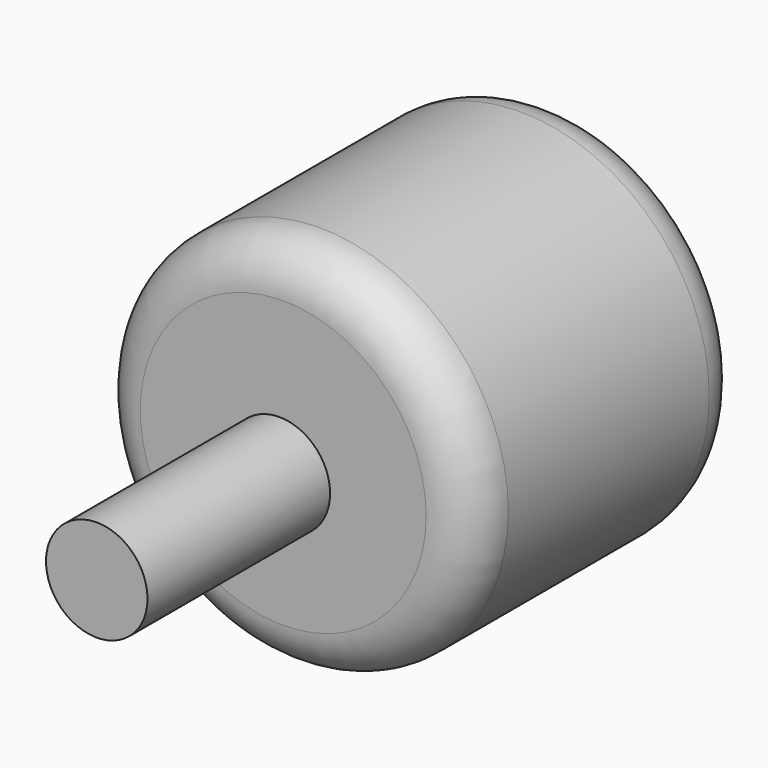
from build123d import *

# Parameters (mm, degrees)
F0_R     = 20.987211
F1_DEPTH = 38.1
F2_R     = 5.08
F3_R     = 5.64864
F4_DEPTH = 25.4


with BuildPart() as f1:
    # F0 (on Front) → F1 (new body)
    with BuildSketch(Plane.XZ):
        with Locations((-26.213065, 26.794255)):
            Circle(F0_R)
    extrude(amount=-F1_DEPTH)

    # F2
    f2_edges = [f1.edges().sort_by_distance(p)[0] for p in [
        (-47.200276, 0, 26.794255),
        (-5.225854, 19.05, 26.794255),
        (-47.200276, 38.1, 26.794255),
    ]]
    fillet(f2_edges, radius=F2_R)

    # F3 (on Front) → F4 (join)
    with BuildSketch(Plane.XZ):
        with Locations((-26.644299, 25.517916)):
            Circle(F3_R)
    extrude(amount=F4_DEPTH)


solid = f1.part
